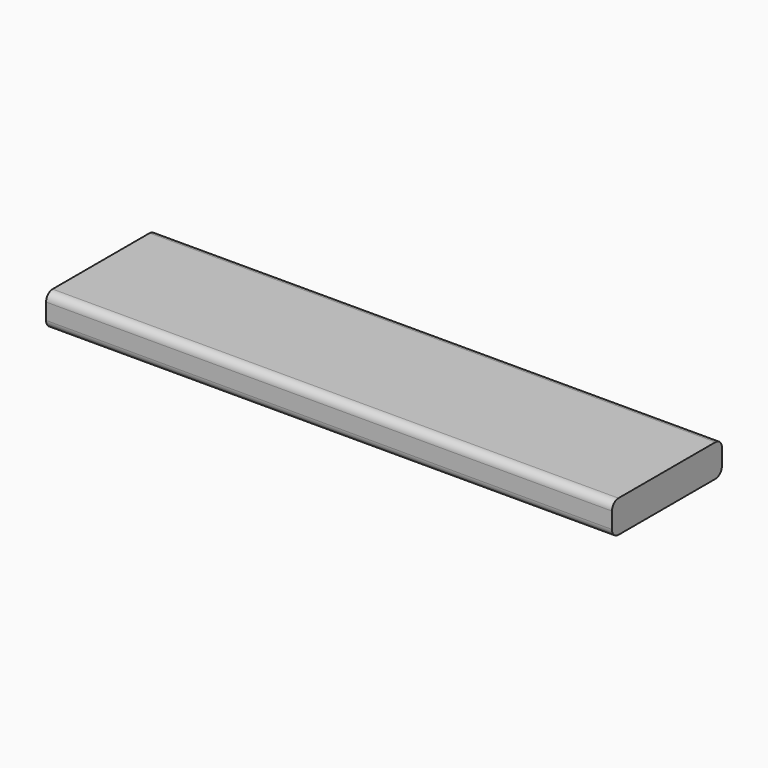
from build123d import *

# Parameters (mm, degrees)
F1_DEPTH = 175


with BuildPart() as f1:
    # F0 (on Right) → F1 (new body, symmetric)
    with BuildSketch(Plane.YZ):
        with BuildLine():
            ThreePointArc((42.5, 5), (41.035534, 8.535534), (37.5, 10))
            Line((37.5, 10), (-37.5, 10))
            ThreePointArc((-37.5, 10), (-41.035534, 8.535534), (-42.5, 5))
            Line((-42.5, 5), (-42.5, -5))
            ThreePointArc((-42.5, -5), (-41.035534, -8.535534), (-37.5, -10))
            Line((-37.5, -10), (37.5, -10))
            ThreePointArc((37.5, -10), (41.035534, -8.535534), (42.5, -5))
            Line((42.5, -5), (42.5, 5))
        make_face()
    extrude(amount=F1_DEPTH, both=True)


solid = f1.part
